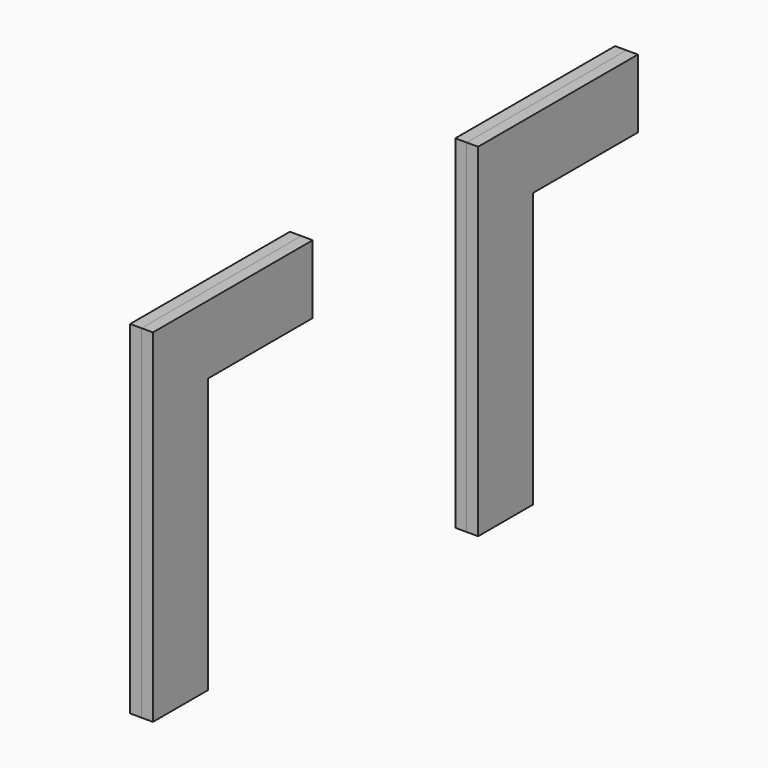
from build123d import *

# Parameters (mm, degrees)
F1_DEPTH = 3.175
F2_DEPTH = 3.175


with BuildPart() as f1:
    # F0 (on Right) → F1 (new body)
    with BuildSketch(Plane.YZ):
        Polygon((-11.109702, 86.905907), (-42.859702, 86.905907), (-66.583016, 86.905907), (-66.583016, -8.344093), (-47.533016, -8.344093), (-47.533016, 67.855907), (-11.109702, 67.855907), align=None)
        Polygon((101.794873, 86.404814), (70.044873, 86.404814), (46.321559, 86.404814), (46.321559, -8.845186), (65.371559, -8.845186), (65.371559, 67.354814), (101.794873, 67.354814), align=None)
    extrude(amount=F1_DEPTH)


with BuildPart() as f2:
    # F1_face (on face) → F2 (new body)
    with BuildSketch(Plane(origin=(3.175, -49.385535, 49.820083), x_dir=(0, 1, 0), z_dir=(1, 0, 0))):
        Polygon((38.275834, 18.035824), (38.275834, 37.085824), (-17.197481, 37.085824), (-17.197481, -58.164176), (1.852519, -58.164176), (1.852519, 18.035824), align=None)
        Polygon((151.180408, 36.584731), (95.707094, 36.584731), (95.707094, -58.665269), (114.757094, -58.665269), (114.757094, 17.534731), (151.180408, 17.534731), align=None)
    extrude(amount=F2_DEPTH)


solid = Compound([f1.part, f2.part])
